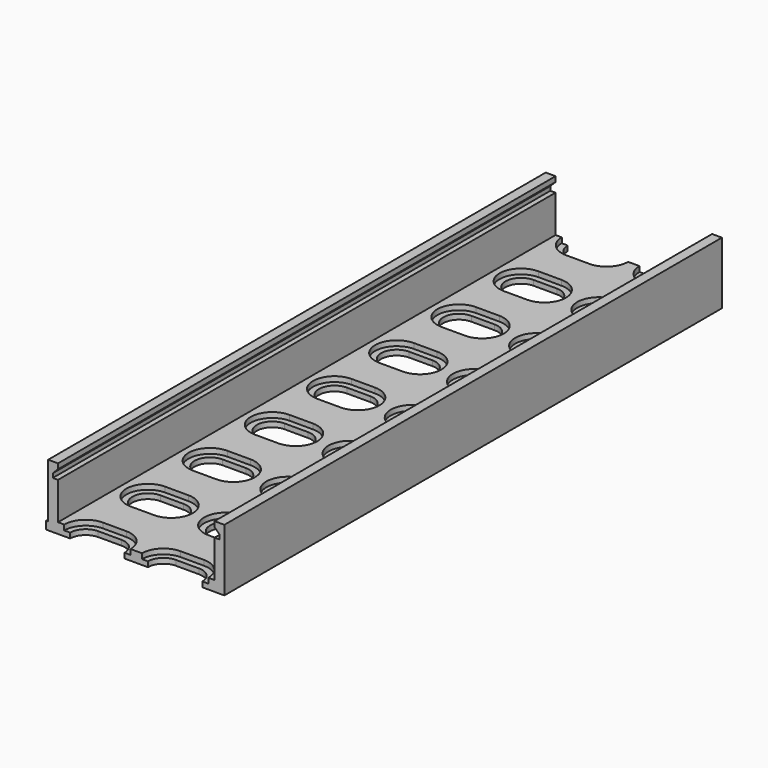
from build123d import *

# Parameters (mm, degrees)
PAD008_DEPTH            = 120
POCKET_DEPTH            = 5
POCKET001_DEPTH         = 1
SKETCH_W                = 1.5
SKETCH_H                = 50
PAD_DEPTH               = 0.4
BODY004_PLACEMENT_ANGLE = 180


with BuildPart() as part:
    # Sketch023 → Pad008 (new body)
    with BuildSketch(Plane.XZ):
        Polygon((17, -6), (17, 6), (15.1, 6), (15.1, 5), (16.1, 4), (16.1, 3.2), (15.1, 3.2), (15.1, -4), (-15.1, -4), (-15.1, 3.2), (-16.1, 3.2), (-16.1, 4), (-15.1, 5), (-15.1, 6), (-17, 6), (-17, -6), align=None)
    extrude(amount=PAD008_DEPTH)

    # Sketch016 → Pocket (cut)
    with BuildSketch(Plane(origin=(-22.5, -200.5, -4), x_dir=(1, 0, 0), z_dir=(0, 0, 1))):
        with BuildLine():
            ThreePointArc((12.75, 188.5), (9.75, 185.5), (12.75, 182.5))
            Line((12.75, 182.5), (17.25, 182.5))
            ThreePointArc((17.25, 182.5), (20.25, 185.5), (17.25, 188.5))
            Line((17.25, 188.5), (12.75, 188.5))
        make_face()
        with BuildLine():
            ThreePointArc((27.75, 188.5), (24.75, 185.5), (27.75, 182.5))
            Line((27.75, 182.5), (32.25, 182.5))
            ThreePointArc((32.25, 182.5), (35.25, 185.5), (32.25, 188.5))
            Line((32.25, 188.5), (27.75, 188.5))
        make_face()
        with BuildLine():
            ThreePointArc((12.75, 173.5), (9.75, 170.5), (12.75, 167.5))
            Line((12.75, 167.5), (17.25, 167.5))
            ThreePointArc((17.25, 167.5), (20.25, 170.5), (17.25, 173.5))
            Line((17.25, 173.5), (12.75, 173.5))
        make_face()
        with BuildLine():
            ThreePointArc((27.75, 173.5), (24.75, 170.5), (27.75, 167.5))
            Line((27.75, 167.5), (32.25, 167.5))
            ThreePointArc((32.25, 167.5), (35.25, 170.5), (32.25, 173.5))
            Line((32.25, 173.5), (27.75, 173.5))
        make_face()
        with BuildLine():
            ThreePointArc((12.75, 158.5), (9.75, 155.5), (12.75, 152.5))
            Line((12.75, 152.5), (17.25, 152.5))
            ThreePointArc((17.25, 152.5), (20.25, 155.5), (17.25, 158.5))
            Line((17.25, 158.5), (12.75, 158.5))
        make_face()
        with BuildLine():
            ThreePointArc((27.75, 158.5), (24.75, 155.5), (27.75, 152.5))
            Line((27.75, 152.5), (32.25, 152.5))
            ThreePointArc((32.25, 152.5), (35.25, 155.5), (32.25, 158.5))
            Line((32.25, 158.5), (27.75, 158.5))
        make_face()
        with BuildLine():
            ThreePointArc((12.75, 143.5), (9.75, 140.5), (12.75, 137.5))
            Line((12.75, 137.5), (17.25, 137.5))
            ThreePointArc((17.25, 137.5), (20.25, 140.5), (17.25, 143.5))
            Line((17.25, 143.5), (12.75, 143.5))
        make_face()
        with BuildLine():
            ThreePointArc((27.75, 143.5), (24.75, 140.5), (27.75, 137.5))
            Line((27.75, 137.5), (32.25, 137.5))
            ThreePointArc((32.25, 137.5), (35.25, 140.5), (32.25, 143.5))
            Line((32.25, 143.5), (27.75, 143.5))
        make_face()
        with BuildLine():
            ThreePointArc((12.75, 128.5), (9.75, 125.5), (12.75, 122.5))
            Line((12.75, 122.5), (17.25, 122.5))
            ThreePointArc((17.25, 122.5), (20.25, 125.5), (17.25, 128.5))
            Line((17.25, 128.5), (12.75, 128.5))
        make_face()
        with BuildLine():
            ThreePointArc((27.75, 128.5), (24.75, 125.5), (27.75, 122.5))
            Line((27.75, 122.5), (32.25, 122.5))
            ThreePointArc((32.25, 122.5), (35.25, 125.5), (32.25, 128.5))
            Line((32.25, 128.5), (27.75, 128.5))
        make_face()
        with BuildLine():
            ThreePointArc((12.75, 113.5), (9.75, 110.5), (12.75, 107.5))
            Line((12.75, 107.5), (17.25, 107.5))
            ThreePointArc((17.25, 107.5), (20.25, 110.5), (17.25, 113.5))
            Line((17.25, 113.5), (12.75, 113.5))
        make_face()
        with BuildLine():
            ThreePointArc((27.75, 113.5), (24.75, 110.5), (27.75, 107.5))
            Line((27.75, 107.5), (32.25, 107.5))
            ThreePointArc((32.25, 107.5), (35.25, 110.5), (32.25, 113.5))
            Line((32.25, 113.5), (27.75, 113.5))
        make_face()
        with BuildLine():
            ThreePointArc((12.75, 98.5), (9.75, 95.5), (12.75, 92.5))
            Line((12.75, 92.5), (17.25, 92.5))
            ThreePointArc((17.25, 92.5), (20.25, 95.5), (17.25, 98.5))
            Line((17.25, 98.5), (12.75, 98.5))
        make_face()
        with BuildLine():
            ThreePointArc((27.75, 98.5), (24.75, 95.5), (27.75, 92.5))
            Line((27.75, 92.5), (32.25, 92.5))
            ThreePointArc((32.25, 92.5), (35.25, 95.5), (32.25, 98.5))
            Line((32.25, 98.5), (27.75, 98.5))
        make_face()
        with BuildLine():
            ThreePointArc((12.75, 83.5), (9.75, 80.5), (12.75, 77.5))
            Line((12.75, 77.5), (17.25, 77.5))
            ThreePointArc((17.25, 77.5), (20.25, 80.5), (17.25, 83.5))
            Line((17.25, 83.5), (12.75, 83.5))
        make_face()
        with BuildLine():
            ThreePointArc((27.75, 83.5), (24.75, 80.5), (27.75, 77.5))
            Line((27.75, 77.5), (32.25, 77.5))
            ThreePointArc((32.25, 77.5), (35.25, 80.5), (32.25, 83.5))
            Line((32.25, 83.5), (27.75, 83.5))
        make_face()
        with BuildLine():
            ThreePointArc((12.75, 203.5), (9.75, 200.5), (12.75, 197.5))
            Line((12.75, 197.5), (17.25, 197.5))
            ThreePointArc((17.25, 197.5), (20.25, 200.5), (17.25, 203.5))
            Line((17.25, 203.5), (12.75, 203.5))
        make_face()
        with BuildLine():
            ThreePointArc((27.75, 203.5), (24.75, 200.5), (27.75, 197.5))
            Line((27.75, 197.5), (32.25, 197.5))
            ThreePointArc((32.25, 197.5), (35.25, 200.5), (32.25, 203.5))
            Line((32.25, 203.5), (27.75, 203.5))
        make_face()
    extrude(amount=-POCKET_DEPTH, mode=Mode.SUBTRACT)

    # Sketch025 → Pocket001 (cut)
    with BuildSketch(Plane(origin=(-22.5, -200.5, -4), x_dir=(1, 0, 0), z_dir=(0, 0, 1))):
        with BuildLine():
            ThreePointArc((12.75, 189.65), (8.6, 185.5), (12.75, 181.35))
            Line((12.75, 181.35), (17.25, 181.35))
            ThreePointArc((17.25, 181.35), (21.4, 185.5), (17.25, 189.65))
            Line((17.25, 189.65), (12.75, 189.65))
        make_face()
        with BuildLine():
            ThreePointArc((27.75, 189.65), (23.6, 185.5), (27.75, 181.35))
            Line((27.75, 181.35), (32.25, 181.35))
            ThreePointArc((32.25, 181.35), (36.4, 185.5), (32.25, 189.65))
            Line((32.25, 189.65), (27.75, 189.65))
        make_face()
        with BuildLine():
            ThreePointArc((12.75, 174.65), (8.6, 170.5), (12.75, 166.35))
            Line((12.75, 166.35), (17.25, 166.35))
            ThreePointArc((17.25, 166.35), (21.4, 170.5), (17.25, 174.65))
            Line((17.25, 174.65), (12.75, 174.65))
        make_face()
        with BuildLine():
            ThreePointArc((27.75, 174.65), (23.6, 170.5), (27.75, 166.35))
            Line((27.75, 166.35), (32.25, 166.35))
            ThreePointArc((32.25, 166.35), (36.4, 170.5), (32.25, 174.65))
            Line((32.25, 174.65), (27.75, 174.65))
        make_face()
        with BuildLine():
            ThreePointArc((12.75, 159.65), (8.6, 155.5), (12.75, 151.35))
            Line((12.75, 151.35), (17.25, 151.35))
            ThreePointArc((17.25, 151.35), (21.4, 155.5), (17.25, 159.65))
            Line((17.25, 159.65), (12.75, 159.65))
        make_face()
        with BuildLine():
            ThreePointArc((27.75, 159.65), (23.6, 155.5), (27.75, 151.35))
            Line((27.75, 151.35), (32.25, 151.35))
            ThreePointArc((32.25, 151.35), (36.4, 155.5), (32.25, 159.65))
            Line((32.25, 159.65), (27.75, 159.65))
        make_face()
        with BuildLine():
            ThreePointArc((12.75, 144.65), (8.6, 140.5), (12.75, 136.35))
            Line((12.75, 136.35), (17.25, 136.35))
            ThreePointArc((17.25, 136.35), (21.4, 140.5), (17.25, 144.65))
            Line((17.25, 144.65), (12.75, 144.65))
        make_face()
        with BuildLine():
            ThreePointArc((27.75, 144.65), (23.6, 140.5), (27.75, 136.35))
            Line((27.75, 136.35), (32.25, 136.35))
            ThreePointArc((32.25, 136.35), (36.4, 140.5), (32.25, 144.65))
            Line((32.25, 144.65), (27.75, 144.65))
        make_face()
        with BuildLine():
            ThreePointArc((12.75, 129.65), (8.6, 125.5), (12.75, 121.35))
            Line((12.75, 121.35), (17.25, 121.35))
            ThreePointArc((17.25, 121.35), (21.4, 125.5), (17.25, 129.65))
            Line((17.25, 129.65), (12.75, 129.65))
        make_face()
        with BuildLine():
            ThreePointArc((27.75, 129.65), (23.6, 125.5), (27.75, 121.35))
            Line((27.75, 121.35), (32.25, 121.35))
            ThreePointArc((32.25, 121.35), (36.4, 125.5), (32.25, 129.65))
            Line((32.25, 129.65), (27.75, 129.65))
        make_face()
        with BuildLine():
            ThreePointArc((12.75, 114.65), (8.6, 110.5), (12.75, 106.35))
            Line((12.75, 106.35), (17.25, 106.35))
            ThreePointArc((17.25, 106.35), (21.4, 110.5), (17.25, 114.65))
            Line((17.25, 114.65), (12.75, 114.65))
        make_face()
        with BuildLine():
            ThreePointArc((27.75, 114.65), (23.6, 110.5), (27.75, 106.35))
            Line((27.75, 106.35), (32.25, 106.35))
            ThreePointArc((32.25, 106.35), (36.4, 110.5), (32.25, 114.65))
            Line((32.25, 114.65), (27.75, 114.65))
        make_face()
        with BuildLine():
            ThreePointArc((12.75, 99.65), (8.6, 95.5), (12.75, 91.35))
            Line((12.75, 91.35), (17.25, 91.35))
            ThreePointArc((17.25, 91.35), (21.4, 95.5), (17.25, 99.65))
            Line((17.25, 99.65), (12.75, 99.65))
        make_face()
        with BuildLine():
            ThreePointArc((27.75, 99.65), (23.6, 95.5), (27.75, 91.35))
            Line((27.75, 91.35), (32.25, 91.35))
            ThreePointArc((32.25, 91.35), (36.4, 95.5), (32.25, 99.65))
            Line((32.25, 99.65), (27.75, 99.65))
        make_face()
        with BuildLine():
            ThreePointArc((12.75, 84.65), (8.6, 80.5), (12.75, 76.35))
            Line((12.75, 76.35), (17.25, 76.35))
            ThreePointArc((17.25, 76.35), (21.4, 80.5), (17.25, 84.65))
            Line((17.25, 84.65), (12.75, 84.65))
        make_face()
        with BuildLine():
            ThreePointArc((27.75, 84.65), (23.6, 80.5), (27.75, 76.35))
            Line((27.75, 76.35), (32.25, 76.35))
            ThreePointArc((32.25, 76.35), (36.4, 80.5), (32.25, 84.65))
            Line((32.25, 84.65), (27.75, 84.65))
        make_face()
        with BuildLine():
            ThreePointArc((12.75, 204.65), (8.6, 200.5), (12.75, 196.35))
            Line((12.75, 196.35), (17.25, 196.35))
            ThreePointArc((17.25, 196.35), (21.4, 200.5), (17.25, 204.65))
            Line((17.25, 204.65), (12.75, 204.65))
        make_face()
        with BuildLine():
            ThreePointArc((27.75, 204.65), (23.6, 200.5), (27.75, 196.35))
            Line((27.75, 196.35), (32.25, 196.35))
            ThreePointArc((32.25, 196.35), (36.4, 200.5), (32.25, 204.65))
            Line((32.25, 204.65), (27.75, 204.65))
        make_face()
    extrude(amount=-POCKET001_DEPTH, mode=Mode.SUBTRACT)

    # Sketch (on Face25 of Pocket001) → Pad (join)
    with BuildSketch(Plane(origin=(17, 0, 0), x_dir=(0, 0, 1), z_dir=(1, 0, 0))):
        with Locations((-5.25, 25)):
            Rectangle(SKETCH_W, SKETCH_H)
    extrude(amount=PAD_DEPTH)


with BuildPart() as part_1:
    # Body004 placement: moved
    add(part.part.moved(Location((-93.5, -156, 9))).rotate(Axis((-93.5, -156, 9), (0, 0, 1)), BODY004_PLACEMENT_ANGLE))


solid = part_1.part
